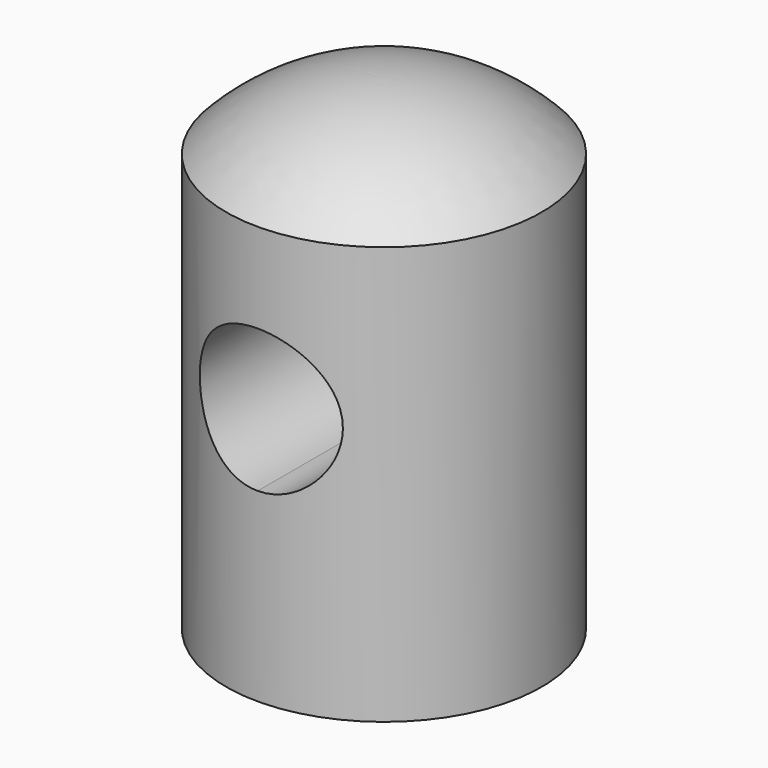
from build123d import *

# Parameters (mm, degrees)
F4_DEPTH       = 21.5910001
F5_DEPTH       = 21.5910001
F6_DEPTH       = 21.5910001
F7_DEPTH       = 21.5910001
F8_DEPTH       = 21.5910001
F9_DEPTH       = 21.5910001
F11_DEPTH      = 21.5910001
F12_DEPTH      = 21.5910001
F12_DEPTH_BACK = 25.4


with BuildPart() as f1:
    # F0 (on Front) → F1 (revolve)
    with BuildSketch(Plane.XZ):
        with BuildLine():
            Line((-21.59, 0), (0, 0))
            Line((0, 0), (0, 66.294))
            ThreePointArc((0, 66.294), (-11.7291440927, 63.9276179966), (-21.59, 57.15))
            Line((-21.59, 57.15), (-21.59, 0))
        make_face()
    revolve(axis=Axis((0, 0, 33.147), (0, 0, 1)))

    # F3 (on Front) → F4 (cut, through all)
    with BuildSketch(Plane.XZ):
        with BuildLine():
            ThreePointArc((0, 25.146), (6.9147972132, 28.0102027868), (9.779, 34.925))
            ThreePointArc((9.779, 34.925), (-6.9147972132, 41.8397972132), (0, 25.146))
        make_face()
    extrude(amount=-F4_DEPTH, mode=Mode.SUBTRACT)

    # F2 (on Front) → F5 (cut, through all)
    with BuildSketch(Plane.XZ):
        with BuildLine():
            ThreePointArc((0, 25.146), (6.9147972132, 28.0102027868), (9.779, 34.925))
            ThreePointArc((9.779, 34.925), (-6.9147972132, 41.8397972132), (0, 25.146))
        make_face()
    extrude(amount=-F5_DEPTH, mode=Mode.SUBTRACT)

    # F3 (on Front) → F6 (cut, through all)
    with BuildSketch(Plane.XZ):
        with BuildLine():
            ThreePointArc((0, 25.146), (6.9147972132, 28.0102027868), (9.779, 34.925))
            ThreePointArc((9.779, 34.925), (-6.9147972132, 41.8397972132), (0, 25.146))
        make_face()
    extrude(amount=-F6_DEPTH, mode=Mode.SUBTRACT)

    # F3 (on Front) → F7 (cut, through all)
    with BuildSketch(Plane.XZ):
        with BuildLine():
            ThreePointArc((0, 25.146), (6.9147972132, 28.0102027868), (9.779, 34.925))
            ThreePointArc((9.779, 34.925), (-6.9147972132, 41.8397972132), (0, 25.146))
        make_face()
    extrude(amount=-F7_DEPTH, mode=Mode.SUBTRACT)

    # F3 (on Front) → F8 (cut, through all)
    with BuildSketch(Plane.XZ):
        with BuildLine():
            ThreePointArc((0, 25.146), (6.9147972132, 28.0102027868), (9.779, 34.925))
            ThreePointArc((9.779, 34.925), (-6.9147972132, 41.8397972132), (0, 25.146))
        make_face()
    extrude(amount=-F8_DEPTH, mode=Mode.SUBTRACT)

    # F3 (on Front) → F9 (cut, through all)
    with BuildSketch(Plane.XZ):
        with BuildLine():
            ThreePointArc((0, 25.146), (6.9147972132, 28.0102027868), (9.779, 34.925))
            ThreePointArc((9.779, 34.925), (-6.9147972132, 41.8397972132), (0, 25.146))
        make_face()
    extrude(amount=-F9_DEPTH, mode=Mode.SUBTRACT)

    # F3 (on Front) → F11 (cut, through all)
    with BuildSketch(Plane.XZ):
        with BuildLine():
            ThreePointArc((0, 25.146), (6.9147972132, 28.0102027868), (9.779, 34.925))
            ThreePointArc((9.779, 34.925), (-6.9147972132, 41.8397972132), (0, 25.146))
        make_face()
    extrude(amount=-F11_DEPTH, mode=Mode.SUBTRACT)

    # F10 (on Front) → F12 (cut, two sides)
    with BuildSketch(Plane.XZ) as f12_sk:
        with BuildLine():
            ThreePointArc((0, 25.3496200125), (6.9147972132, 28.2138227993), (9.779, 35.1286200125))
            ThreePointArc((9.779, 35.1286200125), (-6.9147972132, 42.0434172257), (0, 25.3496200125))
        make_face()
    extrude(amount=-F12_DEPTH, mode=Mode.SUBTRACT)
    extrude(f12_sk.sketch, amount=F12_DEPTH_BACK, mode=Mode.SUBTRACT)


solid = f1.part
